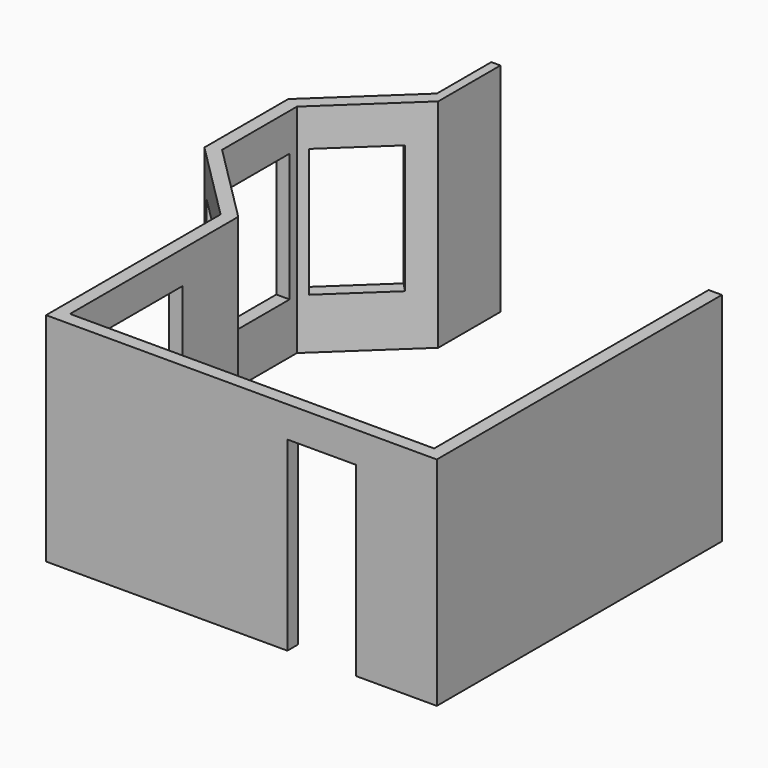
from build123d import *

# Parameters (mm, degrees)
F1_DEPTH  = 2489.2
F2_W      = 787.4
F2_H      = 2133.6
F3_DEPTH  = 177.8
F4_W      = 1168.4
F4_H      = 1016
F5_DEPTH  = 177.8
F6_W      = 863.6
F6_H      = 1473.2
F7_DEPTH  = 177.8
F8_W      = 863.6
F8_H      = 1473.2
F9_DEPTH  = 177.8
F10_W     = 863.6
F10_H     = 1473.2
F11_DEPTH = 177.8


with BuildPart() as f1:
    # F0 (on Top) → F1 (new body)
    with BuildSketch(Plane.XY):
        Polygon((4178.3, 0), (0, 0), (0, 2413), (-924.9664, 3337.966361), (-924.9664, 4411.116361), (0, 5281.367565), (0, 6173.669815), (-104.430145, 6173.669815), (-104.430145, 5392.363533), (-1077.3664, 4476.980068), (-1077.3664, 3274.840212), (-152.4, 2349.873851), (-152.4, -152.4), (4330.7, -152.4), (4330.7, 3937), (4178.3, 3937), align=None)
    extrude(amount=F1_DEPTH)

    # F2 (on face) → F3 (cut)
    with BuildSketch(Plane.XZ.offset(152.4)):
        with Locations((3009.9, 1066.8)):
            Rectangle(F2_W, F2_H)
    extrude(amount=-F3_DEPTH, mode=Mode.SUBTRACT)

    # F4 (on face) → F5 (cut)
    with BuildSketch(Plane.YZ):
        with Locations((1028.7, 1606.55)):
            Rectangle(F4_W, F4_H)
    extrude(amount=-F5_DEPTH, mode=Mode.SUBTRACT)

    # F6 (on face) → F7 (cut)
    with BuildSketch(Plane.YZ.offset(-924.9664)):
        with Locations((3874.541361, 1320.8)):
            Rectangle(F6_W, F6_H)
    extrude(amount=-F7_DEPTH, mode=Mode.SUBTRACT)

    # F8 (on face) → F9 (cut)
    with BuildSketch(Plane(origin=(-2635.782329, 2801.501543, 0), x_dir=(0.72832, 0.685237, 0), z_dir=(0.685237, -0.72832, 0))):
        with Locations((2888.739358, 1320.8)):
            Rectangle(F8_W, F8_H)
    extrude(amount=-F9_DEPTH, mode=Mode.SUBTRACT)

    # F10 (on face) → F11 (cut)
    with BuildSketch(Plane(origin=(1206.5, 1206.500051, 0), x_dir=(-0.707107, 0.707107, 0), z_dir=(0.707107, 0.707107, 0))):
        with Locations((2474.598627, 1320.8)):
            Rectangle(F10_W, F10_H)
    extrude(amount=-F11_DEPTH, mode=Mode.SUBTRACT)


solid = f1.part
